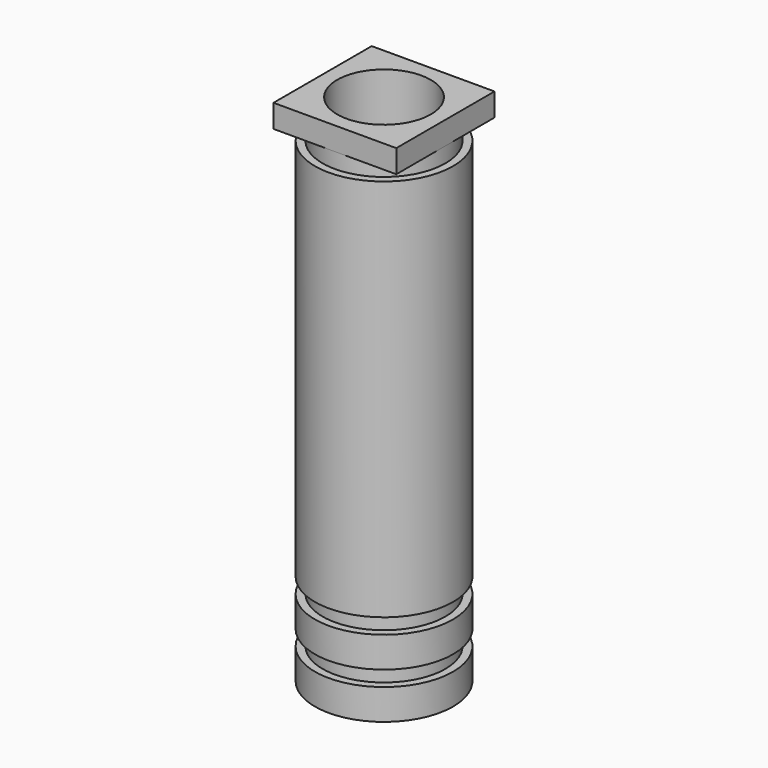
from build123d import *

# Parameters (mm, degrees)
F0_R      = 9
F0_R_2    = 6.1
F1_DEPTH  = 4
F2_R      = 8
F2_R_2    = 6.1
F3_DEPTH  = 2
F4_R      = 9
F4_R_2    = 8
F4_R_3    = 6.1
F5_DEPTH  = 4
F6_R      = 8
F6_R_2    = 6.1
F7_DEPTH  = 2
F8_R      = 9
F8_R_2    = 8
F8_R_3    = 6.1
F9_DEPTH  = 50
F10_R     = 8
F10_R_2   = 6.1
F11_DEPTH = 2
F12_R     = 6.1
F13_DEPTH = 3


with BuildPart() as f1:
    # F0 (on Top) → F1 (new body)
    with BuildSketch(Plane.XY):
        Circle(F0_R)
        Circle(F0_R_2, mode=Mode.SUBTRACT)
    extrude(amount=F1_DEPTH)

    # F2 (on face) → F3 (join)
    with BuildSketch(Plane.XY.offset(4)):
        Circle(F2_R)
        Circle(F2_R_2, mode=Mode.SUBTRACT)
    extrude(amount=F3_DEPTH)

    # F4 (on face) → F5 (join)
    with BuildSketch(Plane.XY.offset(6)):
        Circle(F4_R)
        Circle(F4_R_2, mode=Mode.SUBTRACT)
        Circle(F4_R_2)
        Circle(F4_R_3, mode=Mode.SUBTRACT)
    extrude(amount=F5_DEPTH)

    # F6 (on face) → F7 (join)
    with BuildSketch(Plane.XY.offset(10)):
        Circle(F6_R)
        Circle(F6_R_2, mode=Mode.SUBTRACT)
    extrude(amount=F7_DEPTH)

    # F8 (on face) → F9 (join)
    with BuildSketch(Plane.XY.offset(12)):
        Circle(F8_R)
        Circle(F8_R_2, mode=Mode.SUBTRACT)
        Circle(F8_R_2)
        Circle(F8_R_3, mode=Mode.SUBTRACT)
    extrude(amount=F9_DEPTH)

    # F10 (on face) → F11 (join)
    with BuildSketch(Plane.XY.offset(62)):
        Circle(F10_R)
        Circle(F10_R_2, mode=Mode.SUBTRACT)
    extrude(amount=F11_DEPTH)

    # F12 (on face) → F13 (join)
    with BuildSketch(Plane.XY.offset(64)):
        with BuildLine():
            ThreePointArc((8, 0), (5.6568542495, 5.6568542495), (0, 8))
            ThreePointArc((0, 8), (-5.6568542495, 5.6568542495), (-8, 0))
            ThreePointArc((-8, 0), (-5.6568542495, -5.6568542495), (0, -8))
            ThreePointArc((0, -8), (5.6568542495, -5.6568542495), (8, 0))
        make_face()
        Circle(F12_R, mode=Mode.SUBTRACT)
        with BuildLine():
            Line((0, 8), (-8, 8))
            Line((-8, 8), (-8, 0))
            ThreePointArc((-8, 0), (-5.6568542495, 5.6568542495), (0, 8))
        make_face()
        with BuildLine():
            ThreePointArc((0, -8), (-5.6568542495, -5.6568542495), (-8, 0))
            Line((-8, 0), (-8, -8))
            Line((-8, -8), (0, -8))
        make_face()
        with BuildLine():
            Line((8, -8), (8, 0))
            ThreePointArc((8, 0), (5.6568542495, -5.6568542495), (0, -8))
            Line((0, -8), (8, -8))
        make_face()
        with BuildLine():
            Line((8, 8), (0, 8))
            ThreePointArc((0, 8), (5.6568542495, 5.6568542495), (8, 0))
            Line((8, 0), (8, 8))
        make_face()
    extrude(amount=F13_DEPTH)


solid = f1.part
